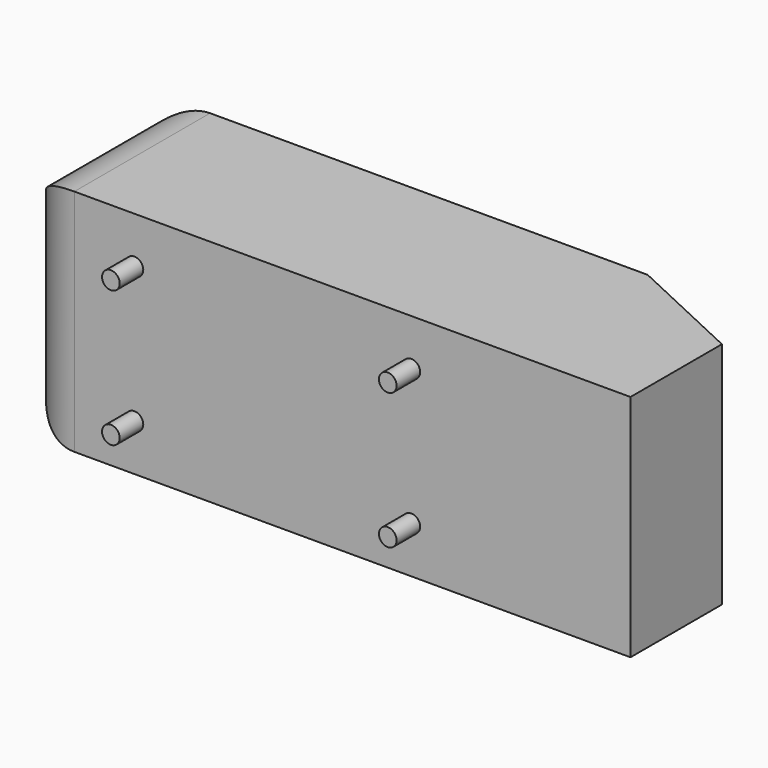
from build123d import *

# Parameters (mm, degrees)
F1_W       = 185.7
F1_H       = 97.25
F2_DEPTH   = 72
F2_FACE_W  = 72
F2_FACE_H  = 97.25
F4_W       = 72
F4_H       = 97.25
F6_R       = 25
F2_FACE1_W = 72
F2_FACE1_H = 97.25
F8_W       = 48.5
F8_H       = 97.25
F10_R      = 3.75
F11_DEPTH  = 12.5


with BuildPart() as f2:
    # F1 (on offset) → F2 (new body)
    with BuildSketch(Plane.XZ.offset(-84.5)):
        Rectangle(F1_W, F1_H)
    extrude(amount=F2_DEPTH)

    # F2_face (on face) → F5 section 0
    with BuildSketch(Plane(origin=(-92.85, 48.5, 0), x_dir=(0, -1, 0), z_dir=(-1, 0, 0))):
        Rectangle(F2_FACE_W, F2_FACE_H)
    # F4 (on offset) → F5 section 1
    with BuildSketch(Plane(origin=(-117.85, 0, 0), x_dir=(0, -1, 0), z_dir=(-1, 0, 0))):
        with Locations((-48.5, 0)):
            Rectangle(F4_W, F4_H)
    loft()

    # F6
    f6_edges = [f2.edges().sort_by_distance(p)[0] for p in [
        (-117.85, 84.5, 0),
        (-117.85, 12.5, 0),
        (-117.85, 48.5, 48.625),
        (-117.85, 48.5, -48.625),
    ]]
    fillet(f6_edges, radius=F6_R)

    # F2_face1 (on face) → F9 section 0
    with BuildSketch(Plane(origin=(92.85, 48.5, 0), x_dir=(0, 1, 0), z_dir=(1, 0, 0))):
        Rectangle(F2_FACE1_W, F2_FACE1_H)
    # F8 (on offset) → F9 section 1
    with BuildSketch(Plane.YZ.offset(143.15)):
        with Locations((36.75, 0)):
            Rectangle(F8_W, F8_H)
    loft()

    # F10 (on face) → F11 (join)
    with BuildSketch(Plane.XZ.offset(-12.5)):
        with Locations((-67.35, -28.875)):
            Circle(F10_R)
        with Locations((50.15, -28.875)):
            Circle(F10_R)
        with Locations((50.15, 28.875)):
            Circle(F10_R)
        with Locations((-67.35, 28.875)):
            Circle(F10_R)
    extrude(amount=F11_DEPTH)


solid = f2.part
